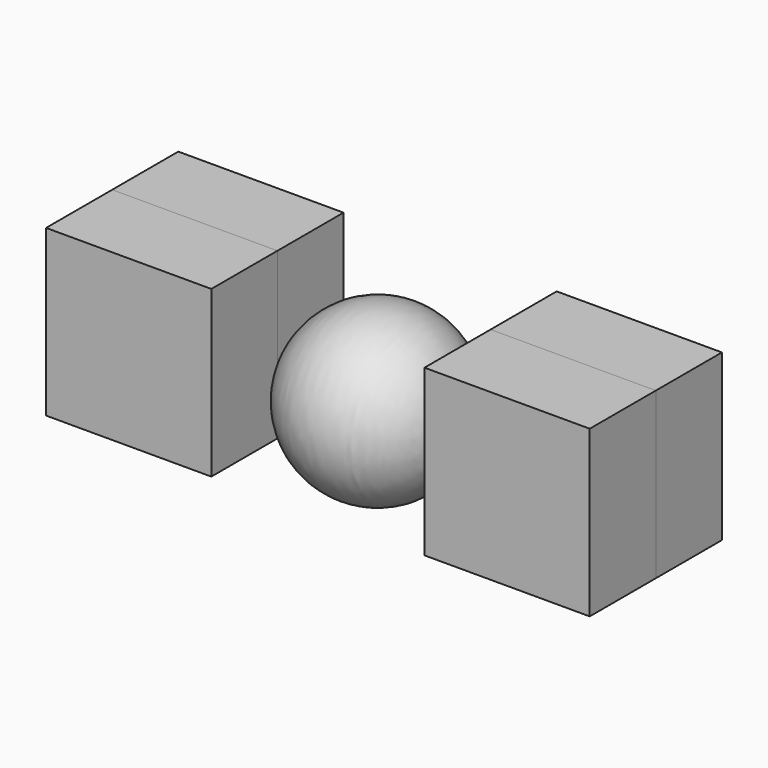
from build123d import *

# Parameters (mm, degrees)
F0_W      = 25.4
F0_H      = 25.4
F1_DEPTH  = 12.7
F1_FACE_W = 25.4
F1_FACE_H = 25.4
F3_DEPTH  = 12.7


with BuildPart() as f1:
    # F0 (on Front) → F1 (new body)
    with BuildSketch(Plane.XZ):
        with Locations((-49.967213, 2.644099)):
            Rectangle(F0_W, F0_H)
        Polygon((20.898786, 15.344099), (-4.501214, 15.344099), (-4.501214, -10.055901), (20.898786, -10.055901), (20.898786, -7.724098), (20.898786, 12.67918), align=None)
    extrude(amount=F1_DEPTH)


with BuildPart() as f2:
    # F0 (on Front) → F2 (revolve)
    with BuildSketch(Plane.XZ):
        with BuildLine():
            Line((-34.685578, 0), (-9.035737, 0))
            ThreePointArc((-9.035737, 0), (-21.860658, 12.82492), (-34.685578, 0))
        make_face()
    revolve(axis=Axis((-21.860658, 0, 0), (-1, 0, 0)))


with BuildPart() as f3:
    # F1_face (on face) → F3 (new body)
    with BuildSketch(Plane(origin=(8.198786, 0, 2.644099), x_dir=(1, 0, 0), z_dir=(0, 1, 0))):
        Rectangle(F1_FACE_W, F1_FACE_H)
        with Locations((-58.165999, 0)):
            Rectangle(F1_FACE_W, F1_FACE_H)
    extrude(amount=F3_DEPTH)


solid = Compound([f1.part, f2.part, f3.part])
